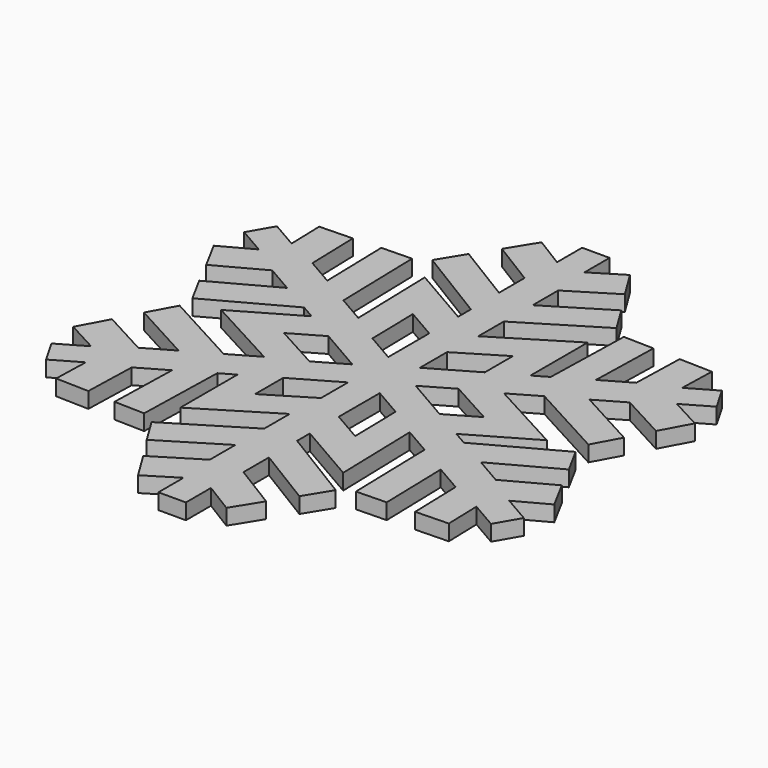
from build123d import *

# Parameters (mm, degrees)
F2_DEPTH = 3
F4_COUNT = 6


with BuildPart() as f2:
    # F1 (on Top) → F2 (new body)
    with BuildSketch(Plane.XY):
        Polygon((-3.143853, 2.46645), (0, 0), (2.705809, 1.481498), (2.705809, 11.658775), (11.181849, 16.792152), (11.181849, 6.122341), (17.15089, 9.390539), (17.15089, 27.178286), (3.143853, 18.582864), (3.143853, 24.671286), (17.588934, 33.50547), (14.577311, 38.42988), (3.214115, 31.480487), (3.214115, 37.564415), (11.739274, 42.817172), (8.440727, 48.170671), (2.623938, 44.58667), (2.623938, 50.576929), (0, 50.576929), (-2.623938, 50.576929), (-2.623938, 44.58667), (-8.440727, 48.170671), (-11.739274, 42.817172), (-3.214115, 37.564415), (-3.214115, 31.480487), (-14.577311, 38.42988), (-17.588934, 33.50547), (-3.143853, 24.671286), align=None)
    extrude(amount=F2_DEPTH)


with BuildPart() as f4_1:
    # F4: instance of F2
    add(f2.part.rotate(Axis((0, 0, 4.922884), (0, 0, 1)), 1 * 360 / F4_COUNT))


with BuildPart() as f4_2:
    # F4: instance of F2
    add(f2.part.rotate(Axis((0, 0, 4.922884), (0, 0, 1)), 2 * 360 / F4_COUNT))


with BuildPart() as f4_3:
    # F4: instance of F2
    add(f2.part.rotate(Axis((0, 0, 4.922884), (0, 0, 1)), 3 * 360 / F4_COUNT))


with BuildPart() as f4_4:
    # F4: instance of F2
    add(f2.part.rotate(Axis((0, 0, 4.922884), (0, 0, 1)), 4 * 360 / F4_COUNT))


with BuildPart() as f4_5:
    # F4: instance of F2
    add(f2.part.rotate(Axis((0, 0, 4.922884), (0, 0, 1)), 5 * 360 / F4_COUNT))


with BuildPart() as f2_1:
    add(f2.part)

    # F5: union F4_5, F4_3, F4_1, F4_2, F4_4
    add(f4_5.part)
    add(f4_3.part)
    add(f4_1.part)
    add(f4_2.part)
    add(f4_4.part)


solid = f2_1.part
